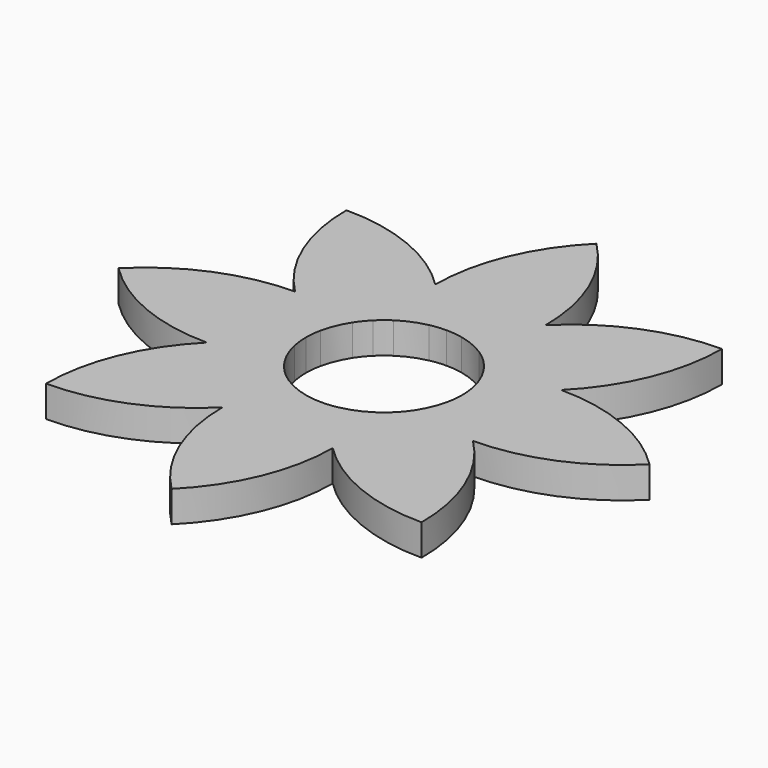
from build123d import *

# Parameters (mm, degrees)
F1_DEPTH = 10


with BuildPart() as f1:
    # F0 (on Top) → F1 (new body)
    with BuildSketch(Plane.XY):
        with BuildLine():
            Line((85, 0), (25, 0))
            ThreePointArc((25, 0), (24.8647472541, -2.5969874831), (24.460452481, -5.1658749912))
            ThreePointArc((24.460452481, -5.1658749912), (34.1098538399, -10.5669929067), (42.6041668237, -17.647223712))
            ThreePointArc((42.6041668236, -17.647223712), (65.5572089349, -13.0401396281), (85, 0))
        make_face()
        with BuildLine():
            ThreePointArc((24.460452481, 5.1658749912), (24.8647472541, 2.5969874831), (25, 0))
            Line((25, 0), (85, 0))
            ThreePointArc((85, 0), (65.5572089349, 13.0401396281), (42.6041668236, 17.647223712))
            ThreePointArc((42.6041668236, 17.647223712), (34.1098538399, 10.5669929067), (24.460452481, 5.1658749912))
        make_face()
        with BuildLine():
            ThreePointArc((20.9489770573, 13.6433265832), (23.0969883128, 9.5670858091), (24.460452481, 5.1658749912))
            ThreePointArc((24.460452481, 5.1658749912), (34.1098538399, 10.5669929067), (42.6041668236, 17.647223712))
            ThreePointArc((42.6041668236, 17.647223712), (31.5913012965, 16.6473166144), (20.9489770573, 13.6433265832))
        make_face()
        with BuildLine():
            ThreePointArc((42.6041668237, -17.647223712), (34.1098538399, -10.5669929067), (24.460452481, -5.1658749912))
            ThreePointArc((24.460452481, -5.1658749912), (23.0969883128, -9.5670858091), (20.9489770573, -13.6433265832))
            ThreePointArc((20.9489770573, -13.6433265832), (31.5913012965, -16.6473166144), (42.6041668236, -17.647223712))
        make_face()
        with BuildLine():
            ThreePointArc((17.6776695297, 17.6776695297), (19.4183788559, 15.7456839359), (20.9489770573, 13.6433265832))
            ThreePointArc((20.9489770573, 13.6433265832), (31.5913012965, 16.6473166144), (42.6041668236, 17.647223712))
            ThreePointArc((42.6041668236, 17.647223712), (55.5767181522, 37.1351758349), (60.1040764009, 60.1040764009))
            Line((60.1040764009, 60.1040764009), (17.6776695297, 17.6776695297))
        make_face()
        with BuildLine():
            ThreePointArc((42.6041668236, -17.647223712), (31.5913012965, -16.6473166144), (20.9489770573, -13.6433265832))
            ThreePointArc((20.9489770573, -13.6433265832), (19.4183788559, -15.7456839359), (17.6776695297, -17.6776695297))
            Line((17.6776695297, -17.6776695297), (60.1040764009, -60.1040764009))
            ThreePointArc((60.1040764009, -60.1040764009), (55.5767181522, -37.1351758349), (42.6041668237, -17.647223712))
        make_face()
        with BuildLine():
            ThreePointArc((13.6433265832, 20.9489770573), (15.7456839359, 19.4183788559), (17.6776695297, 17.6776695297))
            Line((17.6776695297, 17.6776695297), (60.1040764009, 60.1040764009))
            ThreePointArc((60.1040764009, 60.1040764009), (37.1351758349, 55.5767181522), (17.647223712, 42.6041668237))
            ThreePointArc((17.647223712, 42.6041668236), (16.6473166144, 31.5913012965), (13.6433265832, 20.9489770573))
        make_face()
        with BuildLine():
            Line((60.1040764009, -60.1040764009), (17.6776695297, -17.6776695297))
            ThreePointArc((17.6776695297, -17.6776695297), (15.7456839359, -19.4183788559), (13.6433265832, -20.9489770573))
            ThreePointArc((13.6433265832, -20.9489770573), (16.6473166144, -31.5913012965), (17.647223712, -42.6041668236))
            ThreePointArc((17.647223712, -42.6041668236), (37.1351758349, -55.5767181522), (60.1040764009, -60.1040764009))
        make_face()
        with BuildLine():
            ThreePointArc((5.1658749912, 24.460452481), (9.5670858091, 23.0969883128), (13.6433265832, 20.9489770573))
            ThreePointArc((13.6433265832, 20.9489770573), (16.6473166144, 31.5913012965), (17.647223712, 42.6041668236))
            ThreePointArc((17.647223712, 42.6041668237), (10.5669929067, 34.1098538399), (5.1658749912, 24.460452481))
        make_face()
        with BuildLine():
            ThreePointArc((5.1658749912, 24.460452481), (10.5669929067, 34.1098538399), (17.647223712, 42.6041668237))
            ThreePointArc((17.647223712, 42.6041668236), (13.0401396281, 65.5572089349), (0, 85))
            Line((0, 85), (0, 25))
            ThreePointArc((0, 25), (2.5969874831, 24.8647472541), (5.1658749912, 24.460452481))
        make_face()
        with BuildLine():
            ThreePointArc((17.647223712, -42.6041668236), (16.6473166144, -31.5913012965), (13.6433265832, -20.9489770573))
            ThreePointArc((13.6433265832, -20.9489770573), (9.5670858091, -23.0969883128), (5.1658749912, -24.460452481))
            ThreePointArc((5.1658749912, -24.460452481), (10.5669929067, -34.1098538399), (17.647223712, -42.6041668236))
        make_face()
        with BuildLine():
            ThreePointArc((0, -85), (13.0401396281, -65.5572089349), (17.647223712, -42.6041668236))
            ThreePointArc((17.647223712, -42.6041668236), (10.5669929067, -34.1098538399), (5.1658749912, -24.460452481))
            ThreePointArc((5.1658749912, -24.460452481), (2.5969874831, -24.8647472541), (0, -25))
            Line((0, -25), (0, -85))
        make_face()
        with BuildLine():
            Line((0, 25), (0, 85))
            ThreePointArc((0, 85), (-13.0401396281, 65.5572089349), (-17.647223712, 42.6041668236))
            ThreePointArc((-17.647223712, 42.6041668236), (-10.5669929067, 34.1098538399), (-5.1658749912, 24.460452481))
            ThreePointArc((-5.1658749912, 24.460452481), (-2.5969874831, 24.8647472541), (0, 25))
        make_face()
        with BuildLine():
            ThreePointArc((-17.647223712, 42.6041668236), (-16.6473166144, 31.5913012965), (-13.6433265832, 20.9489770573))
            ThreePointArc((-13.6433265832, 20.9489770573), (-9.5670858091, 23.0969883128), (-5.1658749912, 24.460452481))
            ThreePointArc((-5.1658749912, 24.460452481), (-10.5669929067, 34.1098538399), (-17.647223712, 42.6041668236))
        make_face()
        with BuildLine():
            ThreePointArc((-17.6776695297, 17.6776695297), (-15.7456839359, 19.4183788559), (-13.6433265832, 20.9489770573))
            ThreePointArc((-13.6433265832, 20.9489770573), (-16.6473166144, 31.5913012965), (-17.647223712, 42.6041668236))
            ThreePointArc((-17.647223712, 42.6041668236), (-37.1351758349, 55.5767181522), (-60.1040764009, 60.1040764009))
            Line((-60.1040764009, 60.1040764009), (-17.6776695297, 17.6776695297))
        make_face()
        with BuildLine():
            ThreePointArc((-42.6041668237, 17.647223712), (-31.5913012965, 16.6473166144), (-20.9489770573, 13.6433265832))
            ThreePointArc((-20.9489770573, 13.6433265832), (-19.4183788559, 15.7456839359), (-17.6776695297, 17.6776695297))
            Line((-17.6776695297, 17.6776695297), (-60.1040764009, 60.1040764009))
            ThreePointArc((-60.1040764009, 60.1040764009), (-55.5767181522, 37.1351758349), (-42.6041668237, 17.647223712))
        make_face()
        with BuildLine():
            ThreePointArc((-24.460452481, 5.1658749912), (-23.0969883128, 9.5670858091), (-20.9489770573, 13.6433265832))
            ThreePointArc((-20.9489770573, 13.6433265832), (-31.5913012965, 16.6473166144), (-42.6041668237, 17.647223712))
            ThreePointArc((-42.6041668237, 17.647223712), (-34.1098538399, 10.5669929067), (-24.460452481, 5.1658749912))
        make_face()
        with BuildLine():
            ThreePointArc((-25, 0), (-24.8647472541, 2.5969874831), (-24.460452481, 5.1658749912))
            ThreePointArc((-24.460452481, 5.1658749912), (-34.1098538399, 10.5669929067), (-42.6041668237, 17.647223712))
            ThreePointArc((-42.6041668237, 17.647223712), (-65.5572089349, 13.0401396281), (-85, 0))
            Line((-85, 0), (-25, 0))
        make_face()
        with BuildLine():
            ThreePointArc((-42.6041668237, -17.647223712), (-34.1098538399, -10.5669929067), (-24.460452481, -5.1658749912))
            ThreePointArc((-24.460452481, -5.1658749912), (-24.8647472541, -2.5969874831), (-25, 0))
            Line((-25, 0), (-85, 0))
            ThreePointArc((-85, 0), (-65.5572089349, -13.0401396281), (-42.6041668236, -17.647223712))
        make_face()
        with BuildLine():
            ThreePointArc((-20.9489770573, -13.6433265832), (-23.0969883128, -9.5670858091), (-24.460452481, -5.1658749912))
            ThreePointArc((-24.460452481, -5.1658749912), (-34.1098538399, -10.5669929067), (-42.6041668237, -17.647223712))
            ThreePointArc((-42.6041668236, -17.647223712), (-31.5913012965, -16.6473166144), (-20.9489770573, -13.6433265832))
        make_face()
        with BuildLine():
            ThreePointArc((-17.6776695297, -17.6776695297), (-19.4183788559, -15.7456839359), (-20.9489770573, -13.6433265832))
            ThreePointArc((-20.9489770573, -13.6433265832), (-31.5913012965, -16.6473166144), (-42.6041668236, -17.647223712))
            ThreePointArc((-42.6041668237, -17.647223712), (-55.5767181522, -37.1351758349), (-60.1040764009, -60.1040764009))
            Line((-60.1040764009, -60.1040764009), (-17.6776695297, -17.6776695297))
        make_face()
        with BuildLine():
            ThreePointArc((-17.647223712, -42.6041668236), (-16.6473166144, -31.5913012965), (-13.6433265832, -20.9489770573))
            ThreePointArc((-13.6433265832, -20.9489770573), (-15.7456839359, -19.4183788559), (-17.6776695297, -17.6776695297))
            Line((-17.6776695297, -17.6776695297), (-60.1040764009, -60.1040764009))
            ThreePointArc((-60.1040764009, -60.1040764009), (-37.1351758349, -55.5767181522), (-17.647223712, -42.6041668237))
        make_face()
        with BuildLine():
            ThreePointArc((-5.1658749912, -24.460452481), (-9.5670858091, -23.0969883128), (-13.6433265832, -20.9489770573))
            ThreePointArc((-13.6433265832, -20.9489770573), (-16.6473166144, -31.5913012965), (-17.647223712, -42.6041668236))
            ThreePointArc((-17.647223712, -42.6041668237), (-10.5669929067, -34.1098538399), (-5.1658749912, -24.460452481))
        make_face()
        with BuildLine():
            ThreePointArc((0, -25), (-2.5969874831, -24.8647472541), (-5.1658749912, -24.460452481))
            ThreePointArc((-5.1658749912, -24.460452481), (-10.5669929067, -34.1098538399), (-17.647223712, -42.6041668237))
            ThreePointArc((-17.647223712, -42.6041668236), (-13.0401396281, -65.5572089349), (0, -85))
            Line((0, -85), (0, -25))
        make_face()
    extrude(amount=F1_DEPTH)


solid = f1.part
